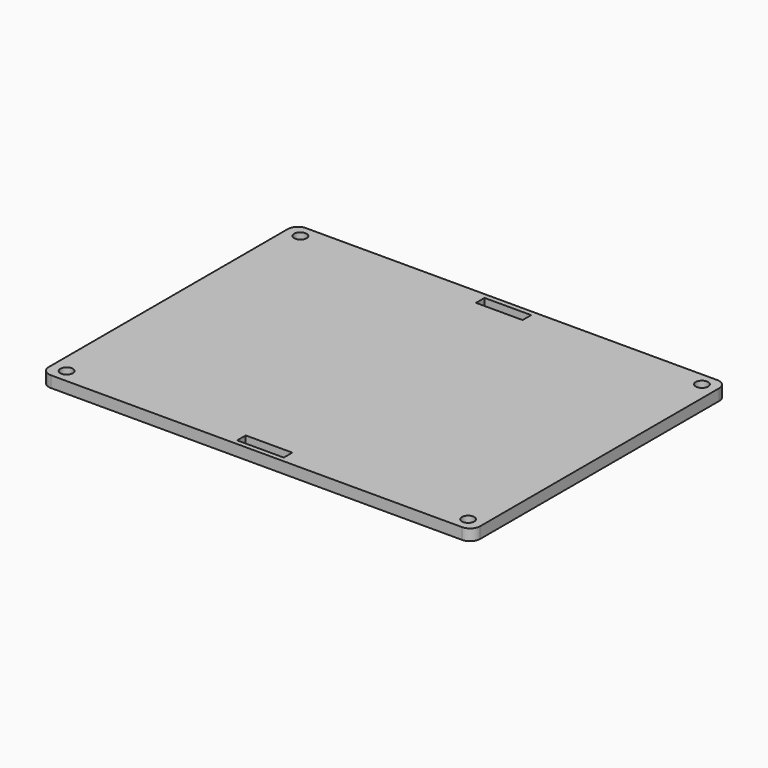
from build123d import *

# Parameters (mm, degrees)
F0_W     = 115
F0_H     = 85
F0_W_2   = 12.42488157
F0_H_2   = 2.8554350138
F1_DEPTH = 3
F2_R     = 2.6556349186
F3_D     = 3.3
F3_DEPTH = 13.5
F3_TIP   = 0.9914200214


with BuildPart() as f1:
    # F0 (on Top) → F1 (new body)
    with BuildSketch(Plane.XY):
        Rectangle(F0_W, F0_H)
        with Locations((0.012440607, -39.7679619491)):
            Rectangle(F0_W_2, F0_H_2, mode=Mode.SUBTRACT)
        with Locations((0.1124413684, 39.7277288139)):
            Rectangle(F0_W_2, F0_H_2, mode=Mode.SUBTRACT)
    extrude(amount=-F1_DEPTH)

    # F2
    f2_edges = [f1.edges().sort_by_distance(p)[0] for p in [
        (57.5, -42.5, -1.5),
        (57.5, 42.5, -1.5),
        (-57.5, -42.5, -1.5),
        (-57.5, 42.5, -1.5),
    ]]
    fillet(f2_edges, radius=F2_R)

    # F3
    with Locations(Plane.XY):
        with Locations((-53.4860491753, -38.9412779514), (-53.4860491753, 39.0123836696), (53.5768903792, -38.9412779514), (53.5768903792, 39.0123836696)):
            Hole(F3_D / 2, depth=F3_DEPTH)
            with Locations((0, 0, -(F3_DEPTH + F3_TIP / 2))):  # 118° drill point
                Cone(0, F3_D / 2, F3_TIP, mode=Mode.SUBTRACT)


solid = f1.part
